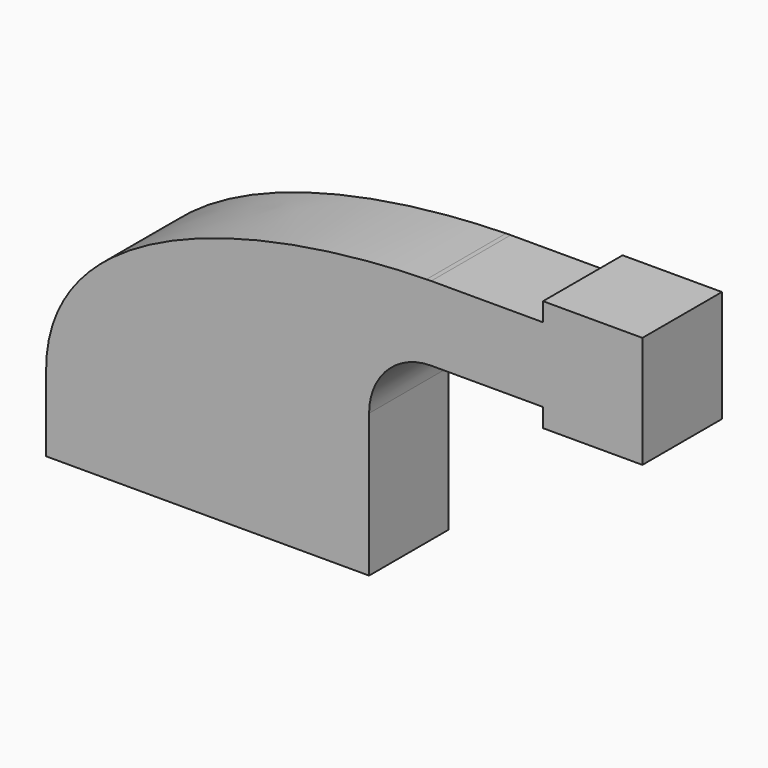
from build123d import *

# Parameters (mm, degrees)
F0_W     = 25.4
F0_H     = 19.05
F1_DEPTH = 25.4


with BuildPart() as f1:
    # F0 (on Front) → F1 (new body)
    with BuildSketch(Plane.XZ):
        Polygon((-41.275, -9.525), (41.275, -9.525), (41.275, 9.525), (22.225, 9.525), (-41.275, 9.525), align=None)
        with BuildLine():
            add(Edge.make_bspline(
                [(-41.275, 9.525), (-41.5551658384, 45.6507069416), (9.2502436299, 60.9717154589), (55.9401499254, 61.9042382735)],
                knots=[0, 0, 0, 0, 110.5489152978, 110.5489152978, 110.5489152978, 110.5489152978], degree=3))
            Line((-41.275, 9.525), (22.225, 9.525))
            Line((22.225, 9.525), (22.225, 27.0002))
            ThreePointArc((22.225, 27.0002), (32.0301906968, 51.2643877171), (55.9401499254, 61.9042382735))
        make_face()
        Polygon((85.725, 61.9252), (85.725, 42.8752), (85.725, 38.1), (111.125, 38.1), (111.125, 66.675), (85.725, 66.675), align=None)
        with BuildLine():
            Line((22.225, 9.525), (41.275, 9.525))
            Line((41.275, 9.525), (41.275, 27.0002))
            ThreePointArc((41.275, 27.0002), (45.9246798487, 38.2255201513), (57.15, 42.8752))
            Line((57.15, 42.8752), (60.325, 42.8752))
            Line((60.325, 42.8752), (60.325, 61.9252))
            Line((60.325, 61.9252), (57.15, 61.9252))
            add(Edge.make_bspline(
                [(55.9401499254, 61.9042382735), (56.3437526975, 61.9122993047), (56.7470479413, 61.9192851654), (57.15, 61.9252)],
                knots=[110.5489152978, 110.5489152978, 110.5489152978, 110.5489152978, 111.5045361635, 111.5045361635, 111.5045361635, 111.5045361635], degree=3))
            ThreePointArc((55.9401499254, 61.9042382735), (32.0301906968, 51.2643877171), (22.225, 27.0002))
            Line((22.225, 27.0002), (22.225, 9.525))
        make_face()
        with Locations((73.025, 52.4002)):
            Rectangle(F0_W, F0_H)
    extrude(amount=F1_DEPTH)


solid = f1.part
